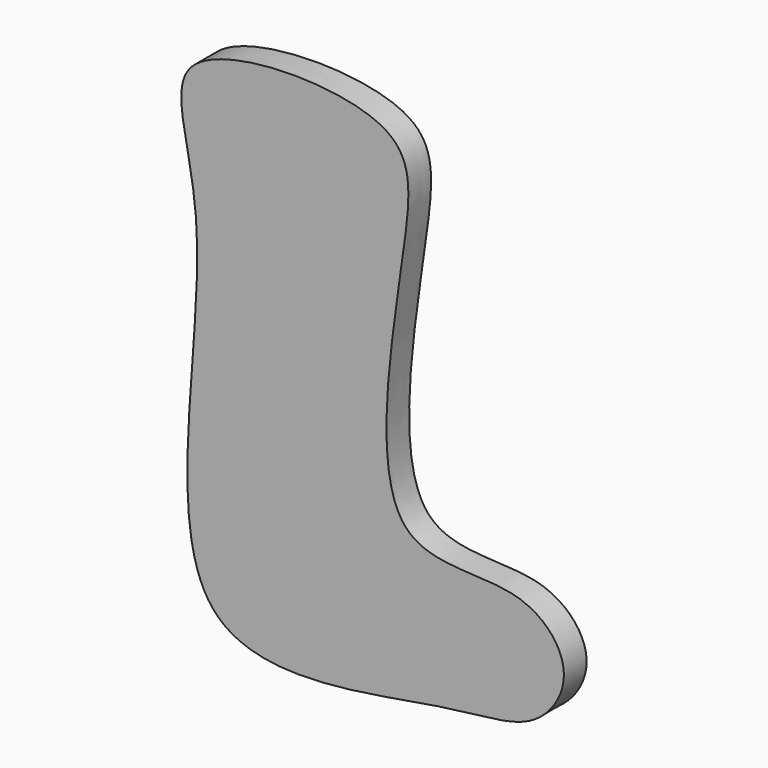
from build123d import *

# Parameters (mm, degrees)
F1_DEPTH = 3.175


with BuildPart() as f1:
    # F0 (on Front) → F1 (new body)
    with BuildSketch(Plane.XZ):
        with BuildLine():
            add(Edge.make_bspline(
                [(-13.5892201215, 21.9091493636), (-9.8242808627, 25.0505015067), (10.7484245667, 25.3520708377), (10.4354067752, 12.633899366), (3.9493959126, -21.0179151032), (22.8348112862, -16.5213945349), (29.3069919221, -24.1783861282), (24.4044426728, -31.7479143728), (14.2184139458, -31.393288779), (-21.3487820944, -40.4827050399), (-9.5269419865, 6.5608806566), (-16.8375430692, 19.1988463411), (-13.5892201215, 21.9091493636)],
                knots=[0, 0, 0, 0, 0.1124857931, 0.1936412794, 0.3248844299, 0.4134379459, 0.4823096859, 0.5454674474, 0.6266464964, 0.7506203724, 0.9029492489, 1, 1, 1, 1], degree=3))
        make_face()
    extrude(amount=F1_DEPTH)


solid = f1.part
